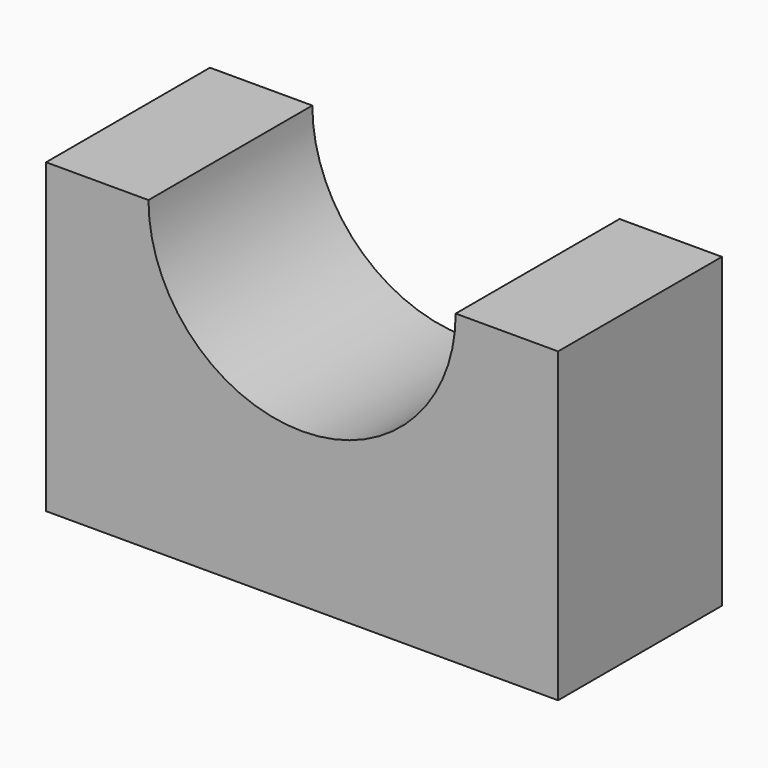
from build123d import *

# Parameters (mm, degrees)
F0_W     = 63.5
F0_H     = 25.4
F1_DEPTH = 38.1
F4_DEPTH = 25.4


with BuildPart() as f1:
    # F0 (on Top) → F1 (new body)
    with BuildSketch(Plane.XY):
        with Locations((-14.730524, -21.923321)):
            Rectangle(F0_W, F0_H)
    extrude(amount=F1_DEPTH)

    # F2 (on face) → F4 (cut)
    with BuildSketch(Plane.XZ.offset(34.623321)):
        with BuildLine():
            ThreePointArc((-33.780524, 38.1), (-14.730524, 19.05), (4.319476, 38.1))
            Line((4.319476, 38.1), (-33.780524, 38.1))
        make_face()
    extrude(amount=-F4_DEPTH, mode=Mode.SUBTRACT)


solid = f1.part
